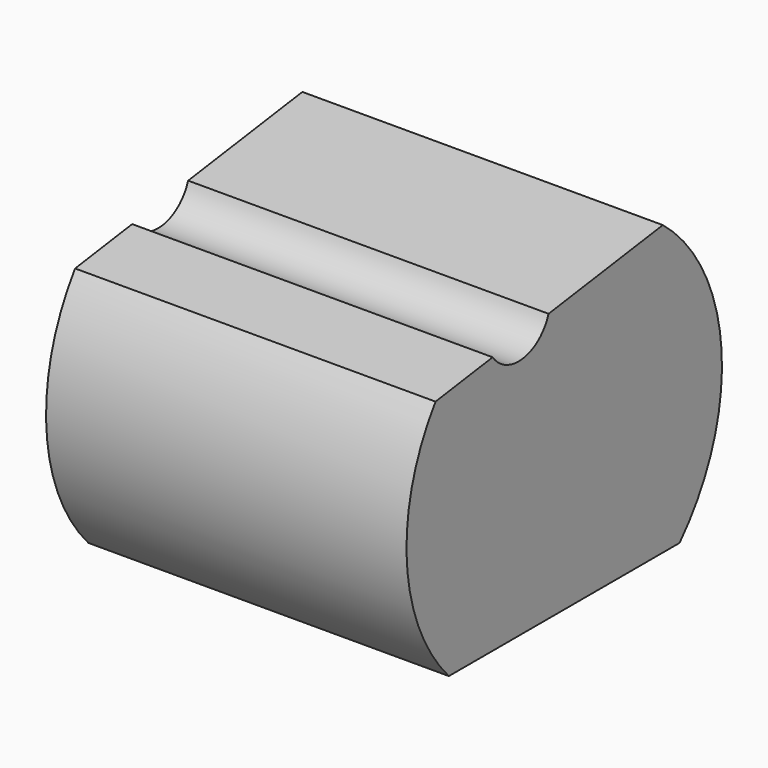
from build123d import *

# Parameters (mm, degrees)
F1_DEPTH = 50
F2_DEPTH = 2


with BuildPart() as f1:
    # F0 (on Right) → F1 (new body)
    with BuildSketch(Plane.YZ):
        with BuildLine():
            Line((-18.500151, -15.885202), (21.499849, -15.885202))
            ThreePointArc((21.499849, -15.885202), (28.776178, 4.748888), (18.594223, 24.114798))
            Line((18.594223, 24.114798), (-1.211139, 21.331336))
            ThreePointArc((-1.211139, 21.331336), (-5.644923, 17.678725), (-10.913745, 19.967723))
            Line((-10.913745, 19.967723), (-20.816425, 18.575992))
            ThreePointArc((-20.816425, 18.575992), (-25.786783, 0.933475), (-18.500151, -15.885202))
        make_face()
        with BuildLine():
            ThreePointArc((-18.016041, -14.785202), (-24.689377, 1.008996), (-20.187486, 17.553574))
            Line((-20.187486, 17.553574), (-11.387244, 18.790367))
            ThreePointArc((-11.387244, 18.790367), (-5.491832, 16.589431), (-0.431459, 20.330102))
            Line((-0.431459, 20.330102), (18.271464, 22.958627))
            ThreePointArc((18.271464, 22.958627), (27.678942, 4.670945), (21.015738, -14.785202))
            Line((21.015738, -14.785202), (-18.016041, -14.785202))
        make_face(mode=Mode.SUBTRACT)
    extrude(amount=-F1_DEPTH)

    # F0 (on Right) → F2 (join)
    with BuildSketch(Plane.YZ):
        with BuildLine():
            Line((-11.387244, 18.790367), (-20.187486, 17.553574))
            ThreePointArc((-20.187486, 17.553574), (-24.689377, 1.008996), (-18.016041, -14.785202))
            Line((-18.016041, -14.785202), (21.015738, -14.785202))
            ThreePointArc((21.015738, -14.785202), (27.678942, 4.670945), (18.271464, 22.958627))
            Line((18.271464, 22.958627), (-0.431459, 20.330102))
            ThreePointArc((-0.431459, 20.330102), (-5.491832, 16.589431), (-11.387244, 18.790367))
        make_face()
    extrude(amount=-F2_DEPTH)


solid = f1.part
